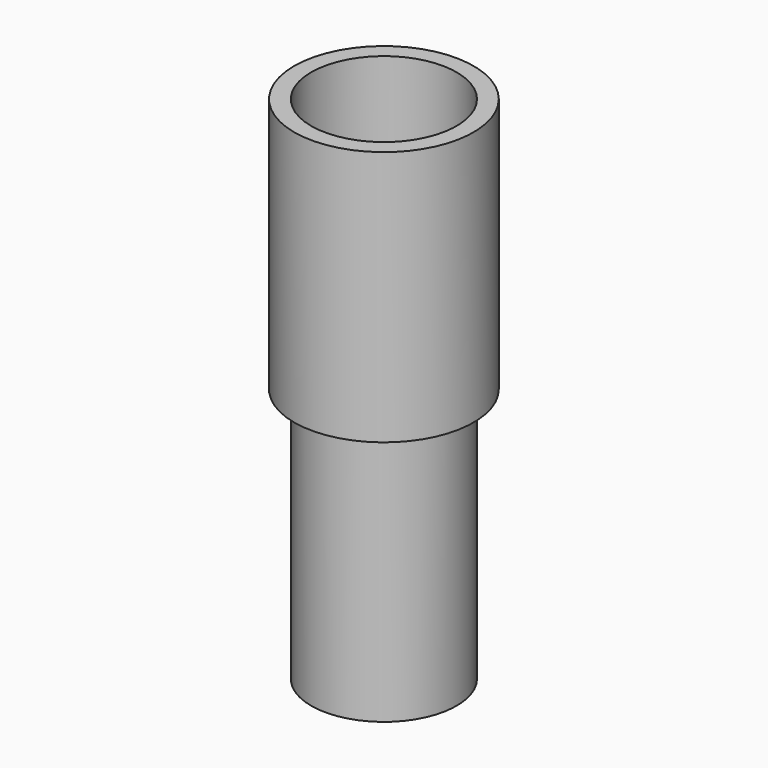
from build123d import *

# Parameters (mm, degrees)
F0_W     = 26.393443346
F0_H     = 75.1639362425
F2_T     = -5
F3_DEPTH = 80


with BuildPart() as f1:
    # F0 (on Front) → F1 (revolve)
    with BuildSketch(Plane.XZ):
        with Locations((-13.196721673, -7.0286886767)):
            Rectangle(F0_W, F0_H)
    revolve(axis=Axis((0, 0, -7.0286886767), (0, 0, -1)))

    # F2
    f2_openings = [f1.faces().sort_by_distance(p)[0] for p in [
        (0, 0, 30.553279),
    ]]
    offset(amount=F2_T, openings=f2_openings)

    # F3 (add): a face of the model
    f3_faces = [f1.faces().sort_by_distance(p)[0] for p in [
        (0, 0, -39.6106567979),
    ]]
    extrude(f3_faces, amount=-F3_DEPTH)


solid = f1.part
